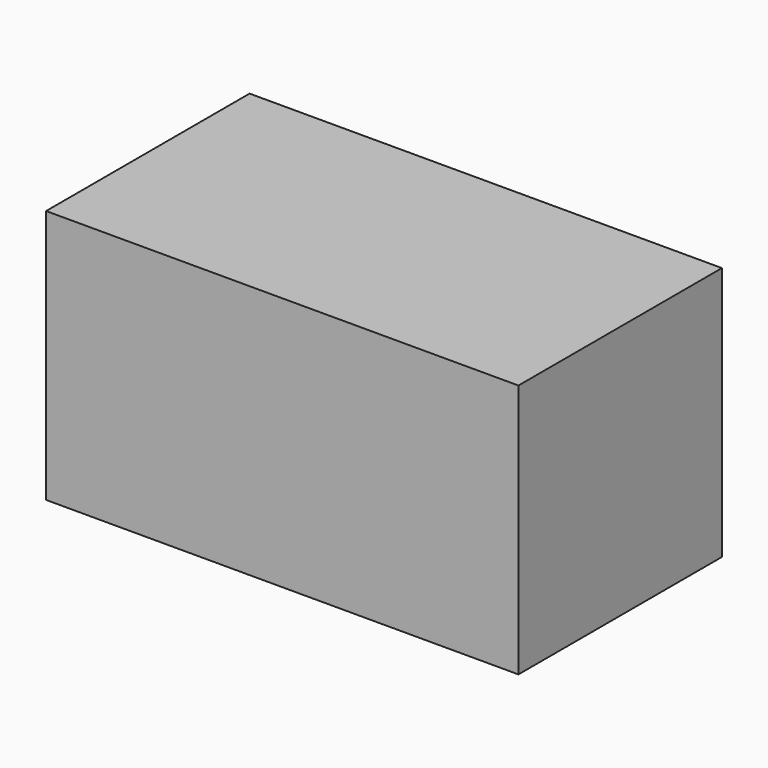
from build123d import *

# Parameters (mm, degrees)
BOX_W     = 65
BOX_H     = 35
BOX_DEPTH = 35


with BuildPart() as part:
    # Box → Box (new body)
    with BuildSketch(Plane.XY):
        with Locations((32.5, 17.5)):
            Rectangle(BOX_W, BOX_H)
    extrude(amount=BOX_DEPTH)


solid = part.part
